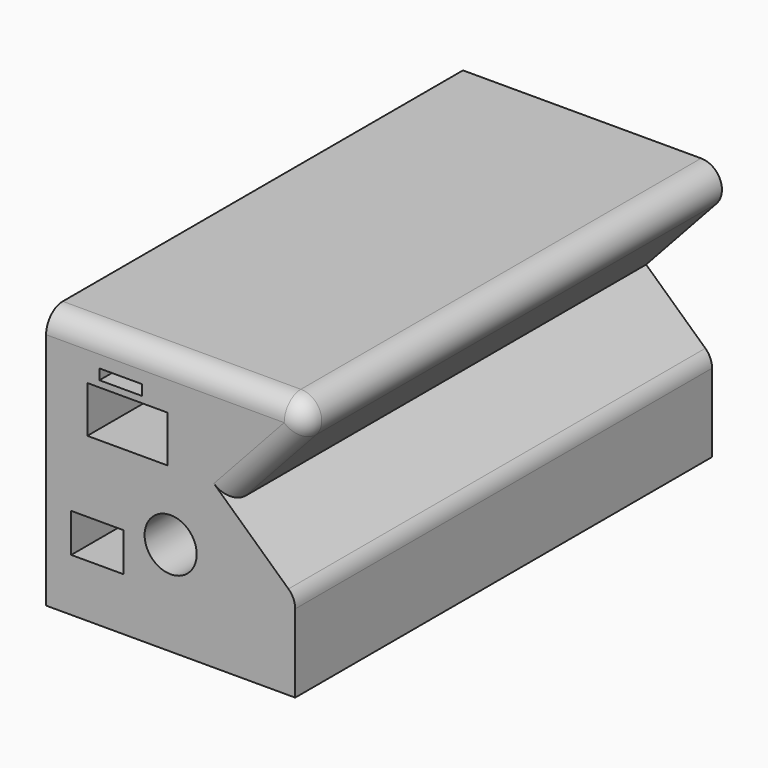
from build123d import *

# Parameters (mm, degrees)
F1_DEPTH  = 127
F2_R      = 5.08
F3_R      = 6.35
F4_DEPTH  = 50.8
F6_W      = 10.401725
F6_H      = 2.54
F7_DEPTH  = 25.4
F5_W      = 19.589182
F5_H      = 11.334733
F8_DEPTH  = 25.4
F9_R      = 5.08
F10_W     = 12.79125
F10_H     = 9.451311
F11_DEPTH = 60


with BuildPart() as f1:
    # F0 (on Front) → F1 (new body)
    with BuildSketch(Plane.XZ):
        Polygon((0, 63.212529), (0, 0), (60.713694, 0), (60.713694, 21.285245), (44.640973, 36.063522), (69.603488, 63.212529), align=None)
    extrude(amount=F1_DEPTH)

    # F2
    f2_edges = [f1.edges().sort_by_distance(p)[0] for p in [
        (69.603488, -63.5, 63.212529),
        (60.713694, -63.5, 21.285245),
    ]]
    fillet(f2_edges, radius=F2_R)

    # F3 (on face) → F4 (cut)
    with BuildSketch(Plane.XZ.offset(127)):
        with Locations((30.356847, 22.944534)):
            Circle(F3_R)
    extrude(amount=-F4_DEPTH, mode=Mode.SUBTRACT)

    # F6 (on face) → F7 (cut)
    with BuildSketch(Plane.XZ.offset(127)):
        with Locations((18.203875, 53.85644)):
            Rectangle(F6_W, F6_H)
    extrude(amount=-F7_DEPTH, mode=Mode.SUBTRACT)

    # F5 (on face) → F8 (cut)
    with BuildSketch(Plane.XZ.offset(127)):
        with Locations((19.849312, 45.366853)):
            Rectangle(F5_W, F5_H)
    extrude(amount=-F8_DEPTH, mode=Mode.SUBTRACT)

    # F9
    f9_edges = [f1.edges().sort_by_distance(p)[0] for p in [
        (29.01582, -127, 63.212529),
    ]]
    fillet(f9_edges, radius=F9_R)

    # F10 (on face) → F11 (cut)
    with BuildSketch(Plane.XZ.offset(127)):
        with Locations((12.520159, 17.595014)):
            Rectangle(F10_W, F10_H)
    extrude(amount=-F11_DEPTH, mode=Mode.SUBTRACT)


solid = f1.part
